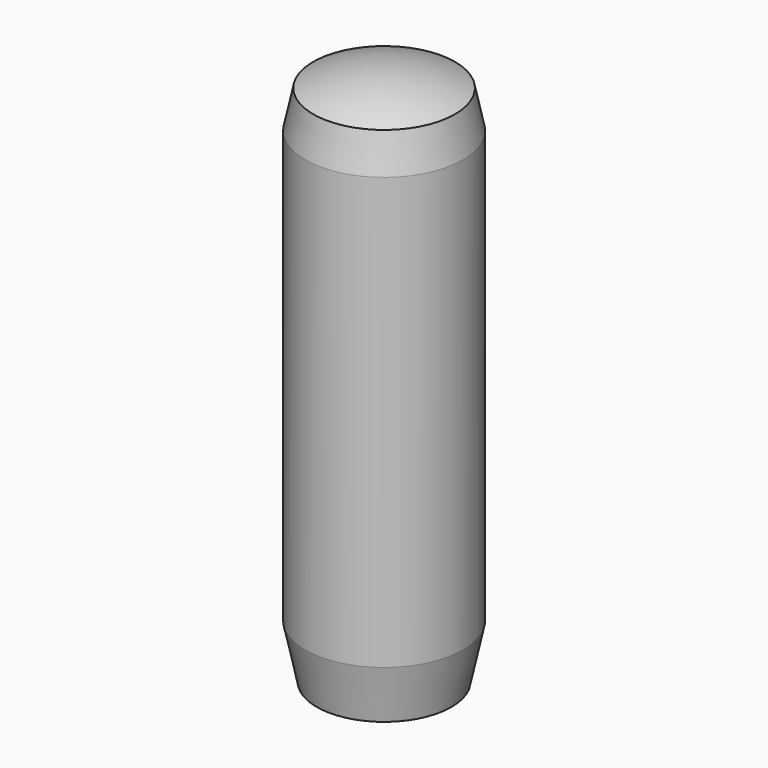
from build123d import *

# Parameters (mm, degrees)
F0_R     = 0.4183333333
F1_DEPTH = 4
F2_SIZE2 = 0.1062782808
F2_SIZE  = 0.5
F5_SCALE = 3


with BuildPart() as f1:
    # F0 (on Top) → F1 (new body)
    with BuildSketch(Plane.XY):
        Circle(F0_R)
    extrude(amount=F1_DEPTH)

    # F2
    f2_edges = [f1.edges().sort_by_distance(p)[0] for p in [
        (-0.418333, 0, 4),
        (-0.418333, 0, 0),
    ]]
    f2_side = f1.faces().sort_by_distance((-0.418333, 0, 2))[0]
    chamfer(f2_edges, length=F2_SIZE, length2=F2_SIZE2, reference=f2_side)


with BuildPart() as f4:
    # F3 (on Front) → F4 (revolve)
    with BuildSketch(Plane.XZ):
        with BuildLine():
            Line((0, 5), (0, 0))
            Line((0, 0), (0.6253883858, 0))
            Line((0.6253883858, 0), (0.7316666667, 0.5))
            Line((0.7316666667, 0.5), (0.7316666667, 4.5))
            Line((0.7316666667, 4.5), (0.6576678971, 4.8481368391))
            ThreePointArc((0.6576678971, 4.8481368391), (0.3374868451, 4.9615411829), (0, 5))
        make_face()
    revolve(axis=Axis((0, 0, 2.5), (0, 0, 1)))


with BuildPart() as f1_1:
    # F5: moved
    add(f1.part.scale(F5_SCALE))


with BuildPart() as f4_1:
    # F5: moved
    add(f4.part.scale(F5_SCALE))


solid = Compound([f1_1.part, f4_1.part])
